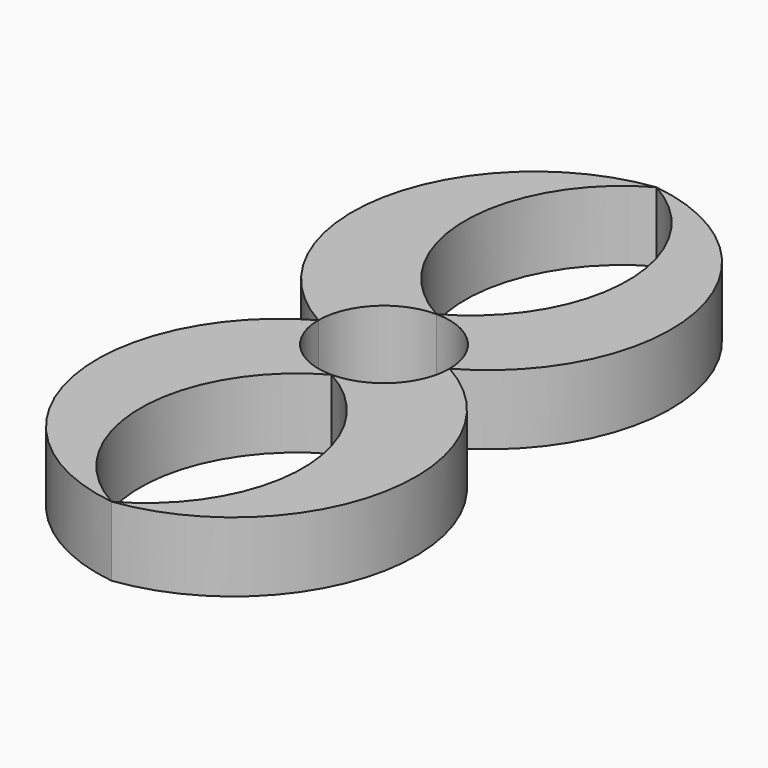
from build123d import *

# Parameters (mm, degrees)
F1_DEPTH = 11.684


with BuildPart() as f1:
    # F0 (on Top) → F1 (new body)
    with BuildSketch(Plane.XY):
        with BuildLine():
            ThreePointArc((-11.000003, 0), (-7.778177, 7.778177), (0, 11.000003))
            ThreePointArc((0, 11.000003), (-13.629779, 34.048445), (0, 57.096887))
            ThreePointArc((0, 57.096887), (-26.164245, 32.529514), (-11.000003, 0))
        make_face()
        with BuildLine():
            ThreePointArc((0, 11.000003), (7.778177, 7.778177), (11.000003, 0))
            ThreePointArc((11.000003, 0), (26.164245, 32.529514), (0, 57.096887))
            ThreePointArc((0, 57.096887), (13.629779, 34.048445), (0, 11.000003))
        make_face()
        with BuildLine():
            ThreePointArc((0, -57.096887), (-13.629779, -34.048445), (0, -11.000003))
            ThreePointArc((0, -11.000003), (-7.778177, -7.778177), (-11.000003, 0))
            ThreePointArc((-11.000003, 0), (-26.164245, -32.529514), (0, -57.096887))
        make_face()
        with BuildLine():
            ThreePointArc((0, -57.096887), (26.164245, -32.529514), (11.000003, 0))
            ThreePointArc((11.000003, 0), (7.778177, -7.778177), (0, -11.000003))
            ThreePointArc((0, -11.000003), (13.629779, -34.048445), (0, -57.096887))
        make_face()
    extrude(amount=F1_DEPTH)


solid = f1.part
